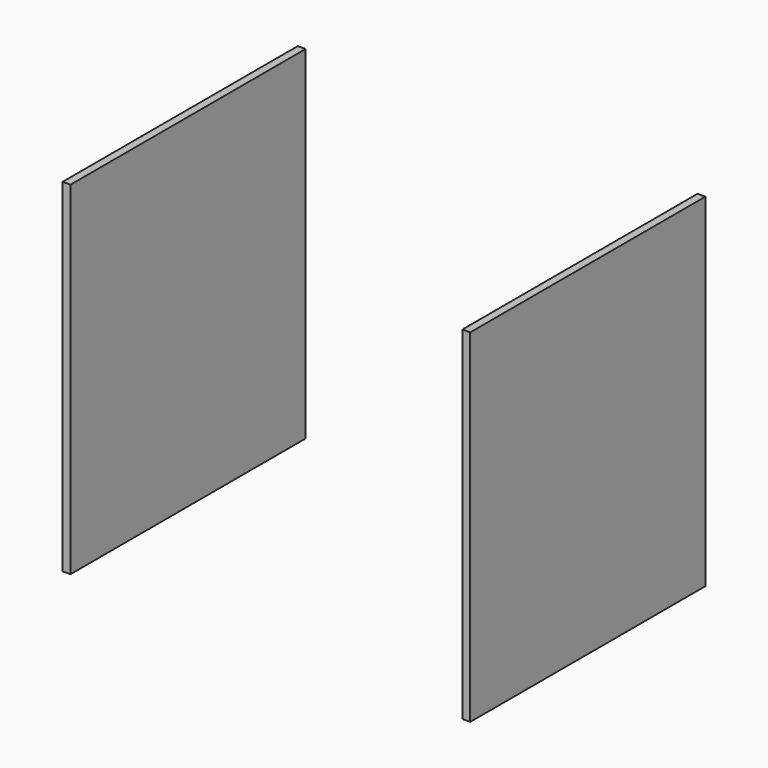
from build123d import *

# Parameters (mm, degrees)
F3_W     = 600
F3_H     = 700
F4_DEPTH = 16


with BuildPart() as f4:
    # F3 (on offset) → F4 (new body)
    with BuildSketch(Plane.YZ.offset(-400)):
        with Locations((-200, -150)):
            Rectangle(F3_W, F3_H)
    extrude(amount=-F4_DEPTH)


with BuildPart() as f5_1:
    # F5: instance of F4
    add(f4.part.mirror(Plane.YZ))


solid = Compound([f4.part, f5_1.part])
